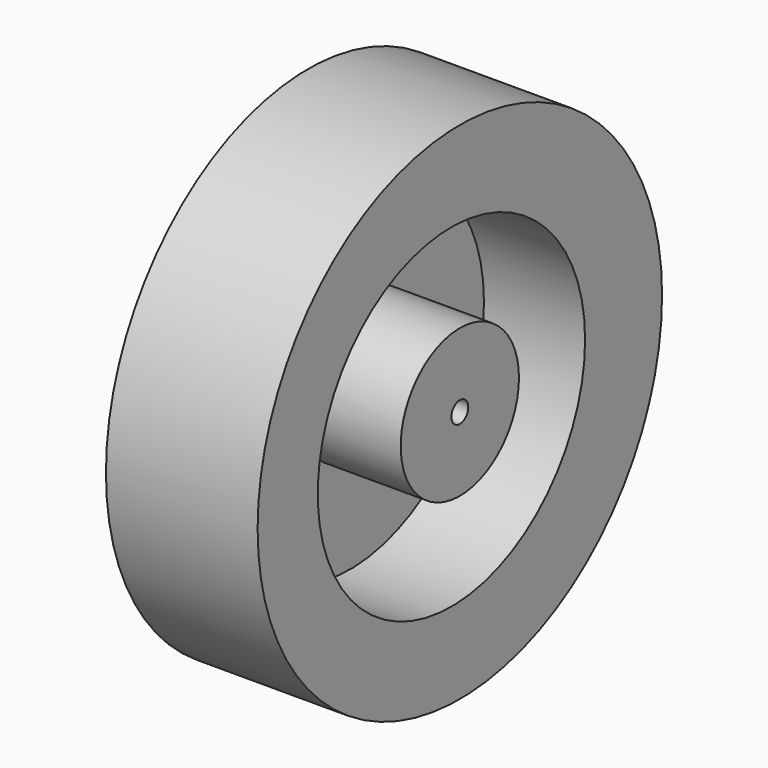
from build123d import *

# Parameters (mm, degrees)
F0_R     = 38.1
F0_R_2   = 1.5875
F1_DEPTH = 22.86
F2_R     = 25.184471
F2_R_2   = 11.140075
F3_DEPTH = 15.24


with BuildPart() as f1:
    # F0 (on Right) → F1 (new body)
    with BuildSketch(Plane.YZ):
        Circle(F0_R)
        Circle(F0_R_2, mode=Mode.SUBTRACT)
    extrude(amount=F1_DEPTH)

    # F2 (on face) → F3 (cut)
    with BuildSketch(Plane.YZ.offset(22.86)):
        with Locations((-1.5875, 0)):
            Circle(F2_R)
        Circle(F2_R_2, mode=Mode.SUBTRACT)
    extrude(amount=-F3_DEPTH, mode=Mode.SUBTRACT)


solid = f1.part
